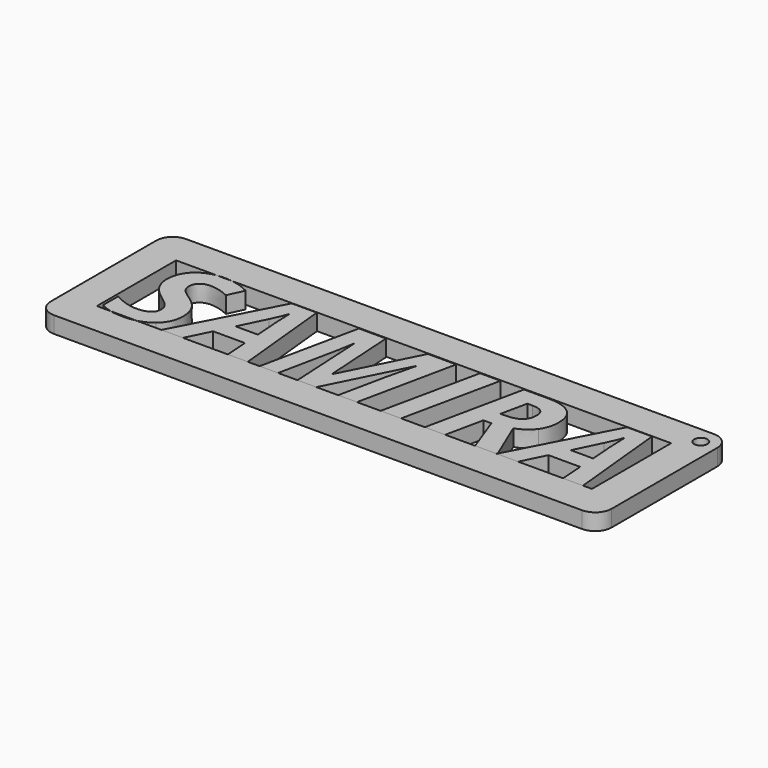
from build123d import *

# Parameters (mm, degrees)
F1_DEPTH = 5
F0_W     = 170
F0_H     = 49.992189534
F2_DEPTH = 5
F3_R     = 5
F4_R     = 2
F5_DEPTH = 25


with BuildPart() as f1:
    # F0 (on Top) → F1 (new body)
    with BuildSketch(Plane.XY):
        with BuildLine():
            Line((-88.6607479267, 38.6802697367), (-93.378545194, 38.6802697367))
            add(Edge.make_bspline(
                [(-96.5145797952, 37.7007071227), (-95.0787776456, 38.4085816462), (-93.378545194, 38.6802697367)],
                knots=[0, 0, 0, 0.6161917381, 0.6161917381, 0.6161917381], degree=2))
            add(Edge.make_bspline(
                [(-100.1073941664, 34.4886529702), (-98.8447021592, 36.551917745), (-96.5145797952, 37.7007071227)],
                knots=[0, 0, 0, 1, 1, 1], degree=2))
            add(Edge.make_bspline(
                [(-101.3700861737, 29.8023733555), (-101.3700861737, 32.4253881954), (-100.1073941664, 34.4886529702)],
                knots=[0, 0, 0, 1, 1, 1], degree=2))
            add(Edge.make_bspline(
                [(-100.2310598785, 25.5521780939), (-101.3700861737, 27.524320765), (-101.3700861737, 29.8023733555)],
                knots=[0, 0, 0, 1, 1, 1], degree=2))
            add(Edge.make_bspline(
                [(-96.2802658145, 21.5623316997), (-99.0920335833, 23.5800354227), (-100.2310598785, 25.5521780939)],
                knots=[0, 0, 0, 1, 1, 1], degree=2))
            add(Edge.make_bspline(
                [(-93.7613905216, 19.4893038424), (-94.2690708132, 20.05881699), (-96.2802658145, 21.5623316997)],
                knots=[0, 0, 0, 1, 1, 1], degree=2))
            add(Edge.make_bspline(
                [(-92.9770895583, 18.2591554435), (-93.25371023, 18.9197906947), (-93.7613905216, 19.4893038424)],
                knots=[0, 0, 0, 1, 1, 1], degree=2))
            add(Edge.make_bspline(
                [(-92.7004688866, 16.7198427645), (-92.7004688866, 17.5985201923), (-92.9770895583, 18.2591554435)],
                knots=[0, 0, 0, 1, 1, 1], degree=2))
            add(Edge.make_bspline(
                [(-93.9826870589, 14.3539224313), (-92.7004688866, 15.2163280548), (-92.7004688866, 16.7198427645)],
                knots=[0, 0, 0, 1, 1, 1], degree=2))
            add(Edge.make_bspline(
                [(-97.5429578217, 13.4915168077), (-95.2649052313, 13.4915168077), (-93.9826870589, 14.3539224313)],
                knots=[0, 0, 0, 1, 1, 1], degree=2))
            add(Edge.make_bspline(
                [(-104.8262173896, 15.6849560163), (-100.9014582123, 13.4915168077), (-97.5429578217, 13.4915168077)],
                knots=[0, 0, 0, 1, 1, 1], degree=2))
            Line((-104.8262173896, 15.6849560163), (-104.8262173896, 10.1134902521))
            add(Edge.make_bspline(
                [(-101.4424349595, 8.6880802027), (-103.3777735106, 9.1455727785), (-104.8262173896, 10.1134902521)],
                knots=[0.4726565934, 0.4726565934, 0.4726565934, 1, 1, 1], degree=2))
            Line((-101.4424349595, 8.6880802027), (-93.7481351617, 8.6880802027))
            add(Edge.make_bspline(
                [(-89.4298362388, 10.7513449775), (-91.2144151396, 9.2850963671), (-93.7481351617, 8.6880802027)],
                knots=[0, 0, 0, 0.5928274645, 0.5928274645, 0.5928274645], degree=2))
            add(Edge.make_bspline(
                [(-86.4195524586, 17.4748544802), (-86.4195524586, 13.2246592186), (-89.4298362388, 10.7513449775)],
                knots=[0, 0, 0, 1, 1, 1], degree=2))
            add(Edge.make_bspline(
                [(-87.6399377749, 22.0602489087), (-86.4195524586, 20.0978693201), (-86.4195524586, 17.4748544802)],
                knots=[0, 0, 0, 1, 1, 1], degree=2))
            add(Edge.make_bspline(
                [(-91.3206198889, 25.6498089192), (-88.8603230912, 24.0226284974), (-87.6399377749, 22.0602489087)],
                knots=[0, 0, 0, 1, 1, 1], degree=2))
            add(Edge.make_bspline(
                [(-94.3276493083, 28.1035969952), (-93.6572509746, 27.1793585156), (-91.3206198889, 25.6498089192)],
                knots=[0, 0, 0, 1, 1, 1], degree=2))
            add(Edge.make_bspline(
                [(-94.9980476421, 30.271001317), (-94.9980476421, 29.0278354747), (-94.3276493083, 28.1035969952)],
                knots=[0, 0, 0, 1, 1, 1], degree=2))
            add(Edge.make_bspline(
                [(-93.9208542029, 32.6889914237), (-94.9980476421, 31.7745160267), (-94.9980476421, 30.271001317)],
                knots=[0, 0, 0, 1, 1, 1], degree=2))
            add(Edge.make_bspline(
                [(-91.1579018467, 33.6034668207), (-92.8436607637, 33.6034668207), (-93.9208542029, 32.6889914237)],
                knots=[0, 0, 0, 1, 1, 1], degree=2))
            add(Edge.make_bspline(
                [(-85.3000523284, 32.099952111), (-88.46979979, 33.6034668207), (-91.1579018467, 33.6034668207)],
                knots=[0, 0, 0, 1, 1, 1], degree=2))
            Line((-85.3000523284, 32.099952111), (-83.0805782331, 36.8383014992))
            add(Edge.make_bspline(
                [(-88.6607479267, 38.6802697367), (-85.6820417385, 38.2661029613), (-83.0805782331, 36.8383014992)],
                knots=[0.2900730853, 0.2900730853, 0.2900730853, 1, 1, 1], degree=2))
        make_face()
        Polygon((-70.5122366554, 38.5500953029), (-86.0876076525, 8.6880802027), (-79.5788859655, 8.6880802027), (-76.0837024195, 15.7695693982), (-66.463811766, 15.7695693982), (-65.9756576395, 8.6880802027), (-59.9355639139, 8.6880802027), (-62.9230671683, 38.5500953029), align=None)
        with BuildLine():
            Line((-67.296928142, 28.1751929337), (-66.7697216853, 21.0546514081))
            Line((-66.7697216853, 21.0546514081), (-73.5387922399, 21.0546514081))
            Line((-73.5387922399, 21.0546514081), (-69.7181726096, 28.8846435976))
            add(Edge.make_bspline(
                [(-67.4986985143, 34.0525686172), (-68.3969021071, 31.6117979845), (-69.7181726096, 28.8846435976)],
                knots=[0, 0, 0, 1, 1, 1], degree=2))
            Line((-67.4986985143, 34.0525686172), (-67.4986985143, 33.3170830665))
            add(Edge.make_bspline(
                [(-67.296928142, 28.1751929337), (-67.4986985143, 30.8372601037), (-67.4986985143, 33.3170830665)],
                knots=[0, 0, 0, 1, 1, 1], degree=2))
        make_face(mode=Mode.SUBTRACT)
        with BuildLine():
            Line((-50.0683418363, 38.4264295909), (-56.3492582643, 8.6880802027))
            Line((-56.3492582643, 8.6880802027), (-50.7582663352, 8.6880802027))
            add(Edge.make_bspline(
                [(-46.9539185091, 27.0361666385), (-47.5039054916, 24.1267680444), (-50.7582663352, 8.6880802027)],
                knots=[0, 0, 0, 1, 1, 1], degree=2))
            add(Edge.make_bspline(
                [(-46.1826349891, 31.7354636966), (-46.4039315265, 29.9455652326), (-46.9539185091, 27.0361666385)],
                knots=[0, 0, 0, 1, 1, 1], degree=2))
            Line((-46.1826349891, 31.7354636966), (-46.0980216072, 31.7354636966))
            Line((-46.0980216072, 31.7354636966), (-44.8613644867, 8.6880802027))
            Line((-44.8613644867, 8.6880802027), (-39.1467068454, 8.6880802027))
            Line((-39.1467068454, 8.6880802027), (-27.5676909642, 31.7354636966))
            Line((-27.5676909642, 31.7354636966), (-27.4700601388, 31.7354636966))
            add(Edge.make_bspline(
                [(-29.6049208522, 22.7664452118), (-28.5244730522, 27.7846696325), (-27.4700601388, 31.7354636966)],
                knots=[0, 0, 0, 1, 1, 1], degree=2))
            Line((-29.6049208522, 22.7664452118), (-32.5533717764, 8.6880802027))
            Line((-32.5533717764, 8.6880802027), (-26.8582403003, 8.6880802027))
            Line((-26.8582403003, 8.6880802027), (-20.5708151506, 38.4264295909))
            Line((-20.5708151506, 38.4264295909), (-29.1753452209, 38.4264295909))
            Line((-29.1753452209, 38.4264295909), (-40.383363966, 16.1926363079))
            Line((-40.383363966, 16.1926363079), (-40.4679773479, 16.1926363079))
            Line((-40.4679773479, 16.1926363079), (-41.8478263456, 38.4264295909))
            Line((-41.8478263456, 38.4264295909), (-50.0683418363, 38.4264295909))
        make_face()
        Polygon((-19.6986464445, 8.6880802027), (-13.4958346767, 8.6880802027), (-7.1498310318, 38.4264295909), (-13.3526427996, 38.4264295909), align=None)
        with BuildLine():
            Line((15.4875029958, 8.6880802027), (15.6100357736, 8.9230072335))
            Line((15.6100357736, 8.9230072335), (10.3976826365, 21.3215089973))
            add(Edge.make_bspline(
                [(15.2629520975, 24.7483509655), (13.5739388198, 22.4410091274), (10.3976826365, 21.3215089973)],
                knots=[0, 0, 0, 1, 1, 1], degree=2))
            add(Edge.make_bspline(
                [(16.9519653753, 30.271001317), (16.9519653753, 27.0556928036), (15.2629520975, 24.7483509655)],
                knots=[0, 0, 0, 1, 1, 1], degree=2))
            add(Edge.make_bspline(
                [(14.5307209078, 36.3501473727), (16.9519653753, 34.2738651545), (16.9519653753, 30.271001317)],
                knots=[0, 0, 0, 1, 1, 1], degree=2))
            add(Edge.make_bspline(
                [(7.2865136701, 38.4264295909), (12.1094764402, 38.4264295909), (14.5307209078, 36.3501473727)],
                knots=[0, 0, 0, 1, 1, 1], degree=2))
            Line((7.2865136701, 38.4264295909), (-0.0162720628, 38.4264295909))
            Line((-0.0162720628, 38.4264295909), (-6.2971884908, 8.6880802027))
            Line((-6.2971884908, 8.6880802027), (-0.0943767231, 8.6880802027))
            Line((-0.0943767231, 8.6880802027), (2.3268677445, 20.0978693201))
            Line((2.3268677445, 20.0978693201), (4.7481122121, 20.0978693201))
            Line((4.7481122121, 20.0978693201), (8.9527464219, 8.6880802027))
            Line((8.9527464219, 8.6880802027), (15.4875029958, 8.6880802027))
        make_face()
        with BuildLine():
            Line((4.9889349145, 25.2267420095), (3.4008068229, 25.2267420095))
            Line((3.4008068229, 25.2267420095), (5.1126006266, 33.2585045713))
            Line((5.1126006266, 33.2585045713), (6.6161153363, 33.2585045713))
            add(Edge.make_bspline(
                [(9.658942725, 32.4253881954), (8.6923975545, 33.2585045713), (6.6161153363, 33.2585045713)],
                knots=[0, 0, 0, 1, 1, 1], degree=2))
            add(Edge.make_bspline(
                [(10.6254878955, 29.9260390676), (10.6254878955, 31.5922718194), (9.658942725, 32.4253881954)],
                knots=[0, 0, 0, 1, 1, 1], degree=2))
            add(Edge.make_bspline(
                [(9.13824499, 26.3852944698), (10.6254878955, 27.5438469301), (10.6254878955, 29.9260390676)],
                knots=[0, 0, 0, 1, 1, 1], degree=2))
            add(Edge.make_bspline(
                [(4.9889349145, 25.2267420095), (7.6510020845, 25.2267420095), (9.13824499, 26.3852944698)],
                knots=[0, 0, 0, 1, 1, 1], degree=2))
        make_face(mode=Mode.SUBTRACT)
        Polygon((35.5994530088, 8.6880802027), (41.6395467344, 8.6880802027), (38.65204348, 38.5500953029), (31.0628739929, 38.5500953029), (15.6100357736, 8.9230072335), (15.7087995331, 8.6880802027), (21.9962246828, 8.6880802027), (25.4914082288, 15.7695693982), (35.1112988822, 15.7695693982), align=None)
        with BuildLine():
            Line((34.2781825063, 28.1751929337), (34.8053889629, 21.0546514081))
            Line((34.8053889629, 21.0546514081), (28.0363184084, 21.0546514081))
            Line((28.0363184084, 21.0546514081), (31.8569380387, 28.8846435976))
            add(Edge.make_bspline(
                [(34.076412134, 34.0525686172), (33.1782085412, 31.6117979845), (31.8569380387, 28.8846435976)],
                knots=[0, 0, 0, 1, 1, 1], degree=2))
            Line((34.076412134, 34.0525686172), (34.076412134, 33.3170830665))
            add(Edge.make_bspline(
                [(34.2781825063, 28.1751929337), (34.076412134, 30.8372601037), (34.076412134, 33.3170830665)],
                knots=[0, 0, 0, 1, 1, 1], degree=2))
        make_face(mode=Mode.SUBTRACT)
    extrude(amount=F1_DEPTH)


with BuildPart() as f2:
    # F0 (on Top) → F2 (new body)
    with BuildSketch(Plane.XY):
        with Locations((-30.6593337655, 23.6841749697)):
            Rectangle(F0_W, F0_H)
        with BuildLine():
            Line((-105.6593337655, 8.6880802027), (-105.6593337655, 38.6802697367))
            Line((-105.6593337655, 38.6802697367), (-93.378545194, 38.6802697367))
            add(Edge.make_bspline(
                [(-93.378545194, 38.6802697367), (-92.319518885, 38.8494965005), (-91.1579018467, 38.8494965005)],
                knots=[0.6161917381, 0.6161917381, 0.6161917381, 1, 1, 1], degree=2))
            add(Edge.make_bspline(
                [(-91.1579018467, 38.8494965005), (-89.8778344695, 38.8494965005), (-88.6607479267, 38.6802697367)],
                knots=[0, 0, 0, 0.2900730853, 0.2900730853, 0.2900730853], degree=2))
            Line((-88.6607479267, 38.6802697367), (44.3406662345, 38.6802697367))
            Line((44.3406662345, 38.6802697367), (44.3406662345, 8.6880802027))
            Line((44.3406662345, 8.6880802027), (41.6395467344, 8.6880802027))
            Line((41.6395467344, 8.6880802027), (35.5994530088, 8.6880802027))
            Line((35.5994530088, 8.6880802027), (21.9962246828, 8.6880802027))
            Line((21.9962246828, 8.6880802027), (15.7087995331, 8.6880802027))
            Line((15.7087995331, 8.6880802027), (15.4875029958, 8.6880802027))
            Line((15.4875029958, 8.6880802027), (8.9527464219, 8.6880802027))
            Line((8.9527464219, 8.6880802027), (-0.0943767231, 8.6880802027))
            Line((-0.0943767231, 8.6880802027), (-6.2971884908, 8.6880802027))
            Line((-6.2971884908, 8.6880802027), (-13.4958346767, 8.6880802027))
            Line((-13.4958346767, 8.6880802027), (-19.6986464445, 8.6880802027))
            Line((-19.6986464445, 8.6880802027), (-26.8582403003, 8.6880802027))
            Line((-26.8582403003, 8.6880802027), (-32.5533717764, 8.6880802027))
            Line((-32.5533717764, 8.6880802027), (-39.1467068454, 8.6880802027))
            Line((-39.1467068454, 8.6880802027), (-44.8613644867, 8.6880802027))
            Line((-44.8613644867, 8.6880802027), (-50.7582663352, 8.6880802027))
            Line((-50.7582663352, 8.6880802027), (-56.3492582643, 8.6880802027))
            Line((-56.3492582643, 8.6880802027), (-59.9355639139, 8.6880802027))
            Line((-59.9355639139, 8.6880802027), (-65.9756576395, 8.6880802027))
            Line((-65.9756576395, 8.6880802027), (-79.5788859655, 8.6880802027))
            Line((-79.5788859655, 8.6880802027), (-86.0876076525, 8.6880802027))
            Line((-86.0876076525, 8.6880802027), (-93.7481351617, 8.6880802027))
            add(Edge.make_bspline(
                [(-93.7481351617, 8.6880802027), (-95.4883737091, 8.2780307364), (-97.5820101519, 8.2780307364)],
                knots=[0.5928274645, 0.5928274645, 0.5928274645, 1, 1, 1], degree=2))
            add(Edge.make_bspline(
                [(-97.5820101519, 8.2780307364), (-99.707795794, 8.2780307364), (-101.4424349595, 8.6880802027)],
                knots=[0, 0, 0, 0.4726565934, 0.4726565934, 0.4726565934], degree=2))
            Line((-101.4424349595, 8.6880802027), (-105.6593337655, 8.6880802027))
        make_face(mode=Mode.SUBTRACT)
    extrude(amount=F2_DEPTH)

    # F3
    f3_edges = [f2.edges().sort_by_distance(p)[0] for p in [
        (-115.659334, -1.31192, 2.5),
        (-115.659334, 48.68027, 2.5),
        (54.340666, -1.31192, 2.5),
        (54.340666, 48.68027, 2.5),
    ]]
    fillet(f3_edges, radius=F3_R)

    # F4 (on face) → F5 (cut)
    with BuildSketch(Plane.XY.offset(5)):
        with Locations((49.3406662345, 43.6802697367)):
            Circle(F4_R)
    extrude(amount=-F5_DEPTH, mode=Mode.SUBTRACT)


solid = Compound([f1.part, f2.part])
